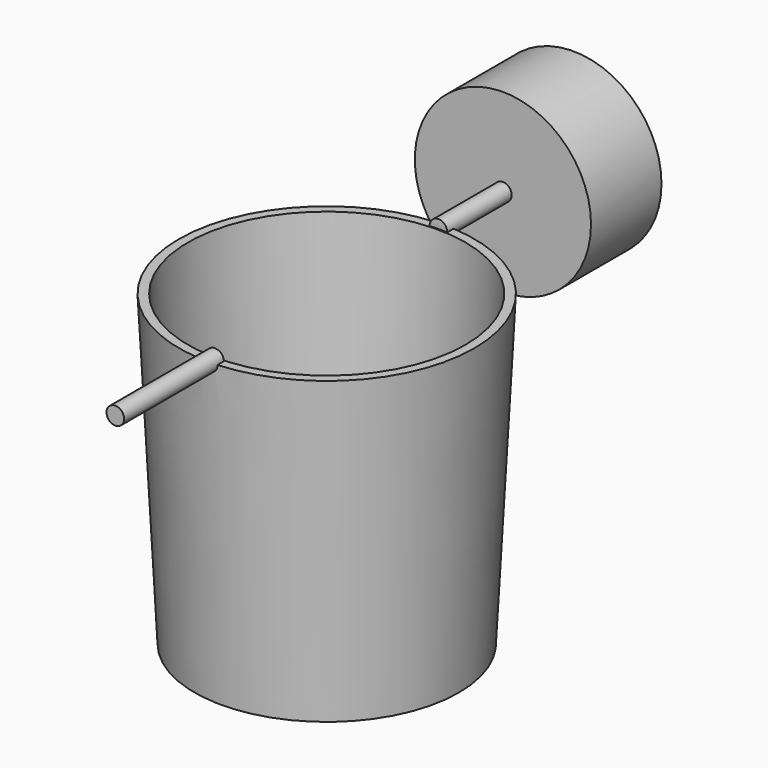
from build123d import *

# Parameters (mm, degrees)
EXTRUDE_DEPTH           = 4.5
EXTRUDE_PLACEMENT_ANGLE = 90
CYLINDER004_R           = 31.75
CYLINDER004_DEPTH       = 30
CYLINDER003_R           = 2
CYLINDER003_DEPTH       = 120
CYLINDER005_R           = 20
CYLINDER005_DEPTH       = 20


with BuildPart() as corona_servo:
    # path2399 → Extrude (new body)
    with BuildSketch(Plane(origin=(8.682374, -4.98127, 0), x_dir=(0, 1, 0), z_dir=(0, 0, 1))):
        with BuildLine():
            add(Edge.make_bspline(
                [(-1.415579, 5.024931), (-1.938341, -2.484397)],
                knots=[0, 0, 7.527502, 7.527502], degree=1))
            add(Edge.make_bspline(
                [(-1.938341, -2.484397), (-1.938341, -2.484397), (-2.134903, -2.858259), (-2.273136, -3.334737)],
                knots=[0, 0, 0, 0, 1, 1, 1, 1], degree=3))
            add(Edge.make_bspline(
                [(-2.273136, -3.334737), (-2.411369, -3.811216), (-2.443203, -4.128926), (-2.371685, -4.540758)],
                knots=[0, 0, 0, 0, 1, 1, 1, 1], degree=3))
            add(Edge.make_bspline(
                [(-2.371685, -4.540758), (-2.300167, -4.952591), (-2.218933, -5.672599), (-1.772797, -6.040394)],
                knots=[0, 0, 0, 0, 1, 1, 1, 1], degree=3))
            add(Edge.make_bspline(
                [(-1.772797, -6.040394), (-1.326661, -6.40819), (-0.861351, -6.572675), (-0.583202, -6.662312)],
                knots=[0, 0, 0, 0, 1, 1, 1, 1], degree=3))
            add(Edge.make_bspline(
                [(-0.583202, -6.662312), (-0.305053, -6.751952), (0.507781, -6.731952), (0.709843, -6.630052)],
                knots=[0, 0, 0, 0, 1, 1, 1, 1], degree=3))
            add(Edge.make_bspline(
                [(0.709843, -6.630052), (0.911905, -6.52815), (1.481843, -6.245909), (1.726833, -5.892641)],
                knots=[0, 0, 0, 0, 1, 1, 1, 1], degree=3))
            add(Edge.make_bspline(
                [(1.726833, -5.892641), (1.971823, -5.539373), (2.340182, -5.059724), (2.384256, -4.759981)],
                knots=[0, 0, 0, 0, 1, 1, 1, 1], degree=3))
            add(Edge.make_bspline(
                [(2.384256, -4.759981), (2.42833, -4.460237), (2.223091, -3.691858), (2.158411, -3.465999)],
                knots=[0, 0, 0, 0, 1, 1, 1, 1], degree=3))
            add(Edge.make_bspline(
                [(2.158411, -3.465999), (2.093732, -3.240141), (1.863634, -2.929328), (1.863634, -2.929328)],
                knots=[0, 0, 0, 0, 1, 1, 1, 1], degree=3))
            add(Edge.make_bspline(
                [(1.863634, -2.929328), (1.423808, 5.709855)],
                knots=[0, 0, 8.650371, 8.650371], degree=1))
            add(Edge.make_bspline(
                [(1.423808, 5.709855), (1.423808, 5.709855), (1.246198, 6.226563), (0.794563, 6.495307)],
                knots=[0, 0, 0, 0, 1, 1, 1, 1], degree=3))
            add(Edge.make_bspline(
                [(0.794563, 6.495307), (0.342929, 6.764051), (-0.057622, 6.753041), (-0.37358, 6.666974)],
                knots=[0, 0, 0, 0, 1, 1, 1, 1], degree=3))
            add(Edge.make_bspline(
                [(-0.37358, 6.666974), (-0.689538, 6.580907), (-1.208145, 6.230265), (-1.306201, 5.897514)],
                knots=[0, 0, 0, 0, 1, 1, 1, 1], degree=3))
            add(Edge.make_bspline(
                [(-1.306201, 5.897514), (-1.404257, 5.564763), (-1.415579, 5.024931), (-1.415579, 5.024931)],
                knots=[0, 0, 0, 0, 1, 1, 1, 1], degree=3))
        make_face()
    extrude(amount=EXTRUDE_DEPTH)


with BuildPart() as corona_servo_1:
    # Extrude placement: moved
    add(corona_servo.part.moved(Location((-12, 73, 75))).rotate(Axis((-12, 73, 75), (1, 0, 0)), EXTRUDE_PLACEMENT_ANGLE))


with BuildPart() as obj1:
    # Sketch → Revolution (revolve)
    with BuildSketch(Plane.XZ):
        Polygon((0, 1), (28, 1), (31.5, 70), (33.550725, 70), (30, 0), (0, 0), align=None)
    revolve(axis=Axis((0, 0, 0), (0, 0, 1)))


with BuildPart() as cylinder004:
    # Cylinder004 → Cylinder004 (new body)
    with BuildSketch(Plane.XY.offset(56)):
        Circle(CYLINDER004_R)
    extrude(amount=CYLINDER004_DEPTH)


with BuildPart() as cut001:
    # Cylinder003 → Cylinder003 (new body)
    with BuildSketch(Plane(origin=(0, 60, 70), x_dir=(1, 0, 0), z_dir=(0, -1, 0))):
        Circle(CYLINDER003_R)
    extrude(amount=CYLINDER003_DEPTH)

    # Cut001: cut Cylinder004
    add(cylinder004.part, mode=Mode.SUBTRACT)


with BuildPart() as cut:
    # Cylinder005 → Cylinder005 (new body)
    with BuildSketch(Plane(origin=(0, 70, 70), x_dir=(1, 0, 0), z_dir=(0, -1, 0))):
        Circle(CYLINDER005_R)
    extrude(amount=CYLINDER005_DEPTH)

    # Fusion: union Cut001
    add(cut001.part)

    # Fusion001: union obj1
    add(obj1.part)

    # Cut: cut corona_servo
    add(corona_servo_1.part, mode=Mode.SUBTRACT)


solid = cut.part
